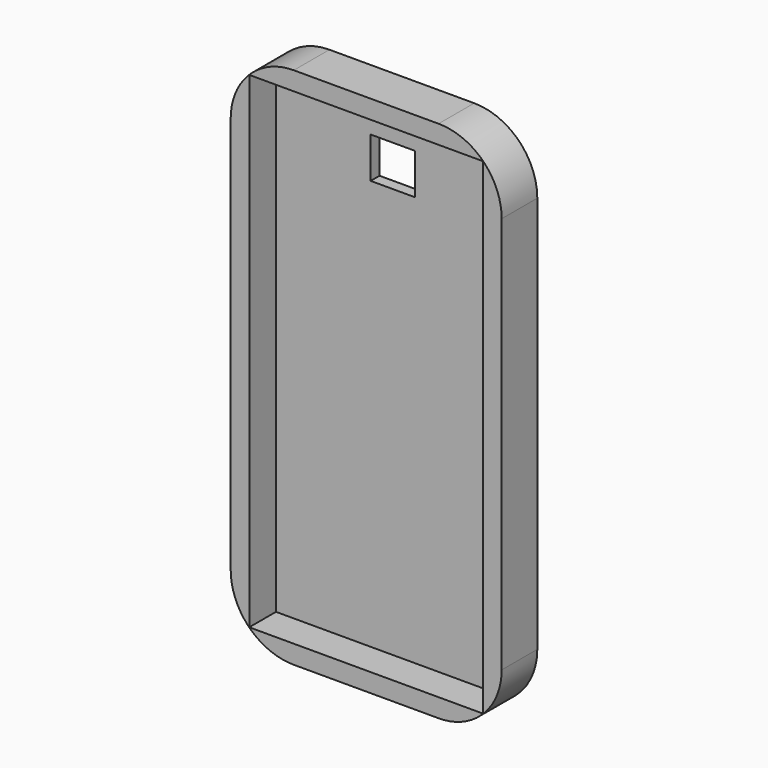
from build123d import *

# Parameters (mm, degrees)
F0_W     = 63
F0_H     = 131
F0_W_2   = 12
F0_H_2   = 11
F1_DEPTH = 3
F0_H_3   = 5
F2_DEPTH = 12
F3_R     = 17


with BuildPart() as f1:
    # F0 (on Front) → F1 (new body)
    with BuildSketch(Plane.XZ):
        Rectangle(F0_W, F0_H)
        with Locations((0, 50.5)):
            Rectangle(F0_W_2, F0_H_2, mode=Mode.SUBTRACT)
    extrude(amount=F1_DEPTH)

    # F0 (on Front) → F2 (join)
    with BuildSketch(Plane.XZ):
        Polygon((31.5, -70.5), (36.5, -70.5), (36.5, 70.5), (31.5, 70.5), (31.5, 65.5), (31.5, -65.5), align=None)
        with Locations((0, -68)):
            Rectangle(F0_W, F0_H_3)
        Polygon((-36.5, -70.5), (-31.5, -70.5), (-31.5, -65.5), (-31.5, 65.5), (-31.5, 70.5), (-36.5, 70.5), align=None)
        with Locations((0, 68)):
            Rectangle(F0_W, F0_H_3)
    extrude(amount=F2_DEPTH)

    # F3
    f3_edges = [f1.edges().sort_by_distance(p)[0] for p in [
        (36.5, -6, 70.5),
        (-36.5, -6, 70.5),
        (-36.5, -6, -70.5),
        (36.5, -6, -70.5),
    ]]
    fillet(f3_edges, radius=F3_R)


solid = f1.part
